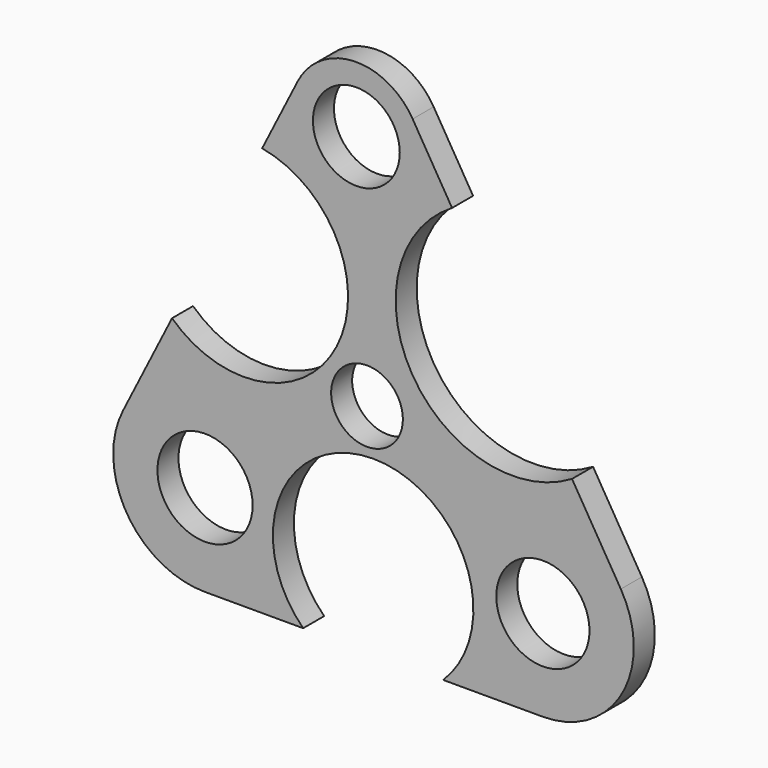
from build123d import *

# Parameters (mm, degrees)
F1_DEPTH = 2.54
F2_R     = 3.465716
F3_DEPTH = 25.4
F4_R     = 4.599805
F4_R_2   = 4.505761
F5_DEPTH = 25.4
F6_R     = 4.197487
F7_DEPTH = 25.4


with BuildPart() as f1:
    # F0 (on Front) → F1 (new body)
    with BuildSketch(Plane.XZ):
        with BuildLine():
            ThreePointArc((-15.541226, 0), (-7.891157, 4.462448), (-8.00983, 13.318121))
            Line((-8.00983, 13.318121), (-12.724322, 21.157009))
            ThreePointArc((-12.724322, 21.157009), (-28.161806, 24.999227), (-24.319587, 40.436711))
            Line((-24.319587, 40.436711), (-28.128936, 46.770598))
            ThreePointArc((-28.128936, 46.770598), (-33.807833, 49.843423), (-39.241434, 46.355143))
            Line((-39.241434, 46.355143), (-42.67387, 39.542808))
            ThreePointArc((-42.67387, 39.542808), (-35.450995, 25.066238), (-51.383585, 22.256688))
            Line((-51.383585, 22.256688), (-56.11723, 12.861851))
            ThreePointArc((-56.11723, 12.861851), (-55.748343, 4.218604), (-48.195517, 0))
            Line((-48.195517, 0), (-38.709875, 0))
            ThreePointArc((-38.709875, 0), (-31.946439, 16.630052), (-25.183003, 0))
            Line((-25.183003, 0), (-15.541226, 0))
        make_face()
    extrude(amount=F1_DEPTH)

    # F2 (on face) → F3 (cut)
    with BuildSketch(Plane.XZ.offset(2.54)):
        with Locations((-32.539293, 20.90759)):
            Circle(F2_R)
    extrude(amount=-F3_DEPTH, mode=Mode.SUBTRACT)

    # F4 (on face) → F5 (cut)
    with BuildSketch(Plane.XZ.offset(2.54)):
        with Locations((-48.195517, 8.870448)):
            Circle(F4_R)
        with Locations((-15.541226, 8.788562)):
            Circle(F4_R_2)
    extrude(amount=-F5_DEPTH, mode=Mode.SUBTRACT)

    # F6 (on face) → F7 (cut)
    with BuildSketch(Plane.XZ.offset(2.54)):
        with Locations((-33.570595, 43.497856)):
            Circle(F6_R)
    extrude(amount=-F7_DEPTH, mode=Mode.SUBTRACT)


solid = f1.part
